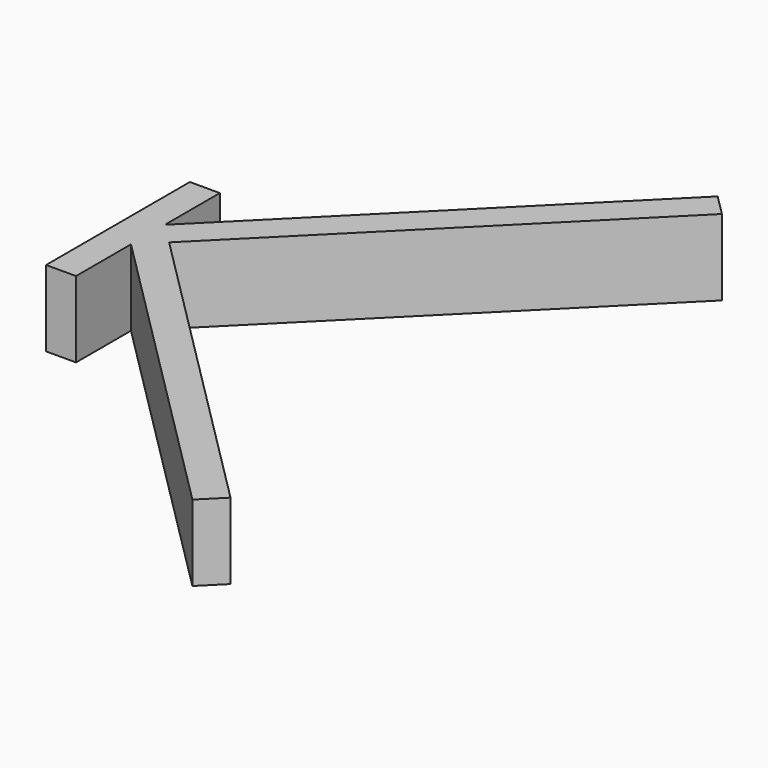
from build123d import *

# Parameters (mm, degrees)
F1_DEPTH = 12.7
F2_DEPTH = 25.4


with BuildPart() as f1:
    # F0 (on Top) → F1 (new body)
    with BuildSketch(Plane.XY):
        Polygon((106.066017, 136.066017), (0, 30), (106.066017, -76.066017), (109.601551, -72.530483), (7.071068, 30), (109.601551, 132.530483), align=None)
    extrude(amount=F1_DEPTH)

    # F0 (on Top) → F2 (join)
    with BuildSketch(Plane.XY):
        Polygon((-10, 0), (0, 0), (0, 22.928932), (0, 30), (0, 37.071068), (0, 60), (-10, 60), align=None)
        Polygon((0, 30), (0, 22.928932), (102.530483, -79.601551), (106.066017, -76.066017), align=None)
        Polygon((0, 37.071068), (0, 30), (106.066017, 136.066017), (102.530483, 139.601551), align=None)
        Polygon((106.066017, 136.066017), (0, 30), (106.066017, -76.066017), (109.601551, -72.530483), (7.071068, 30), (109.601551, 132.530483), align=None)
    extrude(amount=F2_DEPTH)


solid = f1.part
